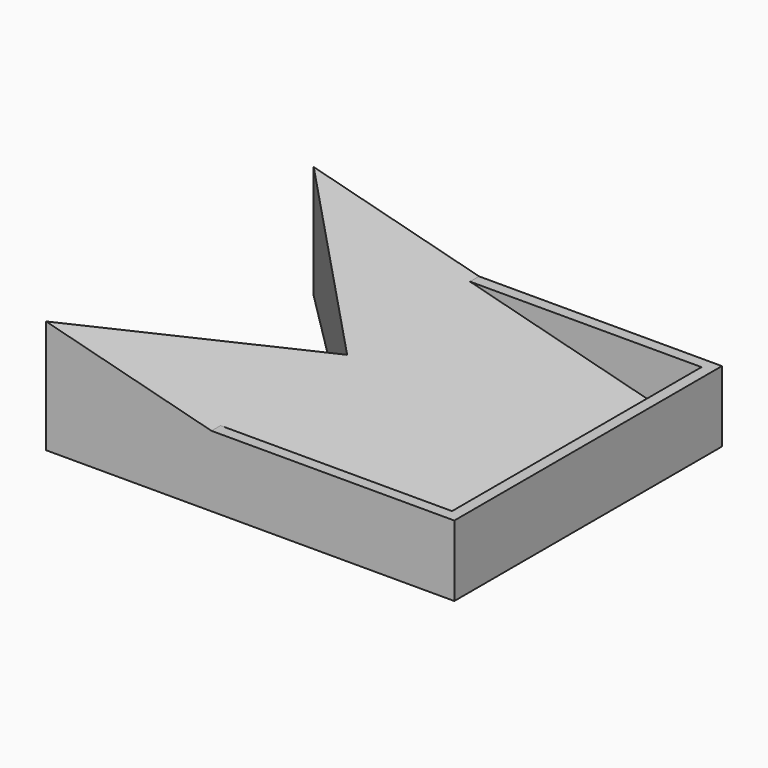
from build123d import *

# Parameters (mm, degrees)
F3_DEPTH  = 59
F4_W      = 59
F4_H      = 12.5
F5_DEPTH  = 2
F6_W      = 65
F6_H      = 12.5
F7_DEPTH  = 2
F8_W      = 65
F8_H      = 12.5
F9_DEPTH  = 2
F11_DEPTH = 25


with BuildPart() as f3:
    # F2 (on offset) → F3 (new body)
    with BuildSketch(Plane.XZ.offset(59)):
        Polygon((0, 20), (0, 0), (70, 0), (70, 2), align=None)
    extrude(amount=-F3_DEPTH)

    # F4 (on offset) → F5 (join)
    with BuildSketch(Plane.YZ.offset(72)):
        with Locations((-29.5, 6.25)):
            Rectangle(F4_W, F4_H)
    extrude(amount=-F5_DEPTH)

    # F6 (on Front) → F7 (join)
    with BuildSketch(Plane.XZ):
        with Locations((39.109939, 6.25)):
            Rectangle(F6_W, F6_H)
    extrude(amount=F7_DEPTH)

    # F8 (on offset) → F9 (join)
    with BuildSketch(Plane.XZ.offset(59)):
        with Locations((39.260793, 6.25)):
            Rectangle(F8_W, F8_H)
    extrude(amount=-F9_DEPTH)

    # F10 (on Top) → F11 (cut)
    with BuildSketch(Plane.XY):
        Polygon((29.5, -29.5), (0, 0), (0, -59), align=None)
    extrude(amount=F11_DEPTH, mode=Mode.SUBTRACT)


solid = f3.part
